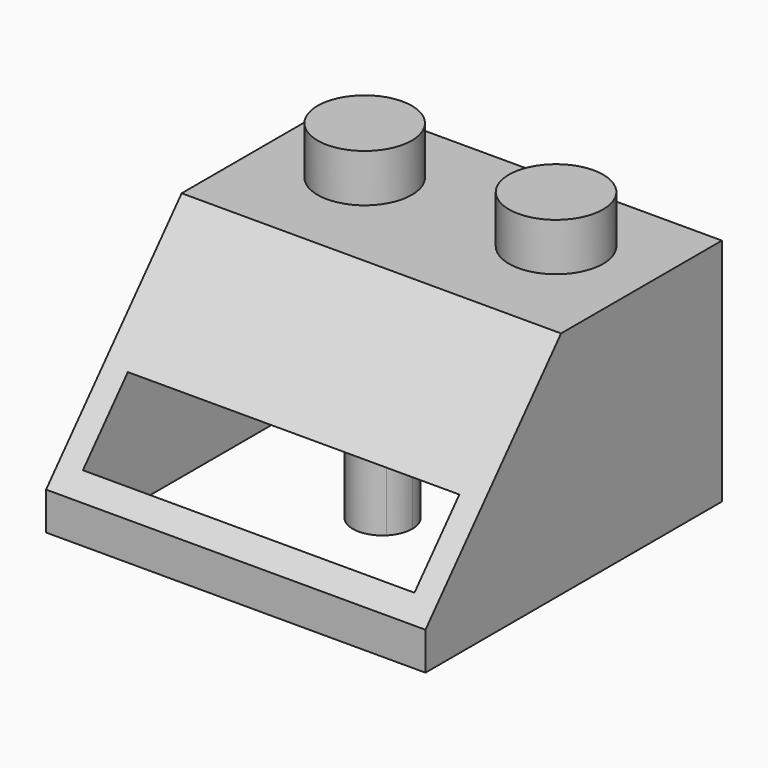
from build123d import *

# Parameters (mm, degrees)
F1_DEPTH = 15.85
F2_R     = 1.9679985055
F2_R_2   = 1.968
F3_DEPTH = 2
F5_DEPTH = 5


with BuildPart() as f1:
    # F0 (on Right) → F1 (new body)
    with BuildSketch(Plane.YZ):
        Polygon((-17.2513356102, 38.1256241769), (-17.2513356102, 47.7256241769), (-25.6513356102, 47.7256241769), (-32.7313356102, 39.7056241769), (-32.7313356102, 38.1256241769), align=None)
    extrude(amount=F1_DEPTH)

    # F2 (on face) → F3 (join)
    with BuildSketch(Plane.XY.offset(47.7256241769)):
        with Locations((3.9679985055, -21.0531856865)):
            Circle(F2_R)
        with Locations((11.882, -20.9530331194)):
            Circle(F2_R_2)
    extrude(amount=F3_DEPTH)

    # F4 (on face) → F5 (cut)
    with BuildSketch(Plane(origin=(0, 0, 38.1256241769), x_dir=(1, 0, 0), z_dir=(0, 0, -1))):
        with BuildLine():
            Line((7.0497745559, 25.9519131103), (1, 32.0581247445))
            Line((1, 32.0581247445), (1, 18.0789209985))
            Line((1, 18.0789209985), (7.0497745559, 24.1851326327))
            ThreePointArc((7.0497745559, 24.1851326327), (6.6814575231, 25.0685228715), (7.0497745559, 25.9519131103))
        make_face()
        with BuildLine():
            Line((14.85, 32.0581247445), (1, 32.0581247445))
            Line((1, 32.0581247445), (7.0497745559, 25.9519131103))
            ThreePointArc((7.0497745559, 25.9519131103), (7.925, 26.3120653484), (8.8002254441, 25.9519131103))
            Line((8.8002254441, 25.9519131103), (14.85, 32.0581247445))
        make_face()
        with BuildLine():
            Line((14.85, 21.5539868837), (14.85, 32.0581247445))
            Line((14.85, 32.0581247445), (8.8002254441, 25.9519131103))
            ThreePointArc((8.8002254441, 25.9519131103), (9.072775655, 25.5470716544), (9.1685424769, 25.0685228715))
            ThreePointArc((9.1685424769, 25.0685228715), (9.072775655, 24.5899740886), (8.8002254441, 24.1851326327))
            Line((8.8002254441, 24.1851326327), (14.85, 18.0789209985))
            Line((14.85, 18.0789209985), (14.85, 21.5539868837))
        make_face()
        with BuildLine():
            Line((7.0497745559, 24.1851326327), (1, 18.0789209985))
            Line((1, 18.0789209985), (14.85, 18.0789209985))
            Line((14.85, 18.0789209985), (8.8002254441, 24.1851326327))
            ThreePointArc((8.8002254441, 24.1851326327), (7.925, 23.8249803946), (7.0497745559, 24.1851326327))
        make_face()
        with BuildLine():
            Line((7.925, 25.0685228715), (7.2684074253, 24.4058050824))
            ThreePointArc((7.2684074253, 24.4058050824), (7.925, 24.1356195125), (8.5815925747, 24.4058050824))
            Line((8.5815925747, 24.4058050824), (7.925, 25.0685228715))
        make_face()
        with BuildLine():
            Line((7.925, 25.0685228715), (7.2684074253, 25.7312406607))
            ThreePointArc((7.2684074253, 25.7312406607), (6.992096641, 25.0685228715), (7.2684074253, 24.4058050824))
            Line((7.2684074253, 24.4058050824), (7.925, 25.0685228715))
        make_face()
        with BuildLine():
            ThreePointArc((8.5815925747, 25.7312406607), (7.925, 26.0014262305), (7.2684074253, 25.7312406607))
            Line((7.2684074253, 25.7312406607), (7.925, 25.0685228715))
            Line((7.925, 25.0685228715), (8.5815925747, 25.7312406607))
        make_face()
        with BuildLine():
            ThreePointArc((8.857903359, 25.0685228715), (8.7860592592, 25.4275293191), (8.5815925747, 25.7312406607))
            Line((8.5815925747, 25.7312406607), (7.925, 25.0685228715))
            Line((7.925, 25.0685228715), (8.5815925747, 24.4058050824))
            ThreePointArc((8.5815925747, 24.4058050824), (8.7860592592, 24.7095164239), (8.857903359, 25.0685228715))
        make_face()
    extrude(amount=-F5_DEPTH, mode=Mode.SUBTRACT)


solid = f1.part
